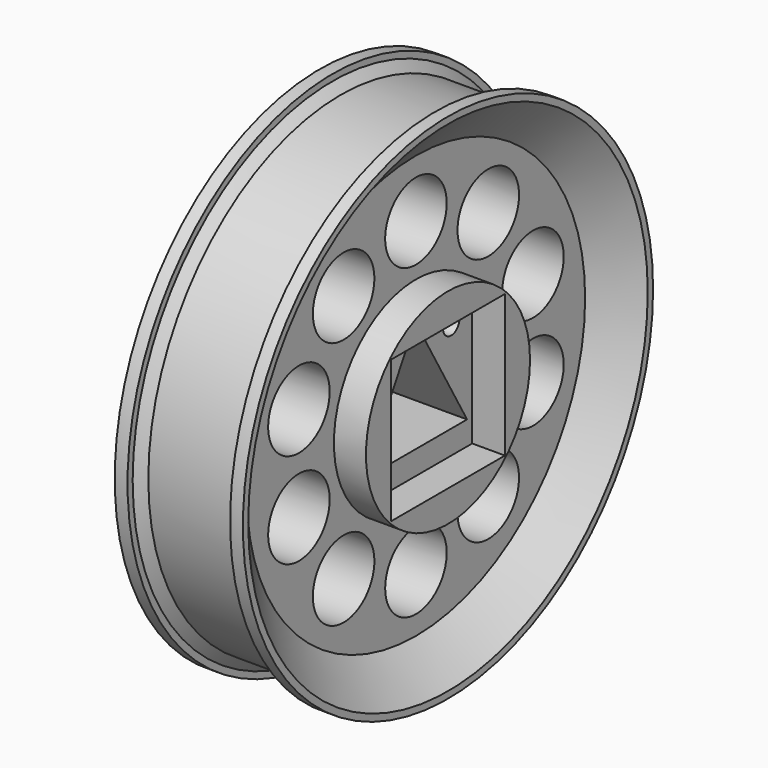
from build123d import *

# Parameters (mm, degrees)
SKETCH001_R        = 1.6
POCKET_DEPTH       = 20.001
SKETCH003_W        = 22.2
SKETCH003_H        = 22.2
POCKET001_DEPTH    = 5.1
SKETCH004_R        = 2.9
POCKET002_DEPTH    = 3
SKETCH005_R        = 6
POCKET003_DEPTH    = 244.783506
POLARPATTERN_COUNT = 10


with BuildPart() as part:
    # Sketch → Revolution (revolve)
    with BuildSketch(Plane.XY):
        Polygon((8, 39), (8, 40), (10, 40), (10, 38.958768), (5, 33), (5, 16), (10, 16), (10, 1), (-10, 1), (-10, 16), (-5, 16), (-5, 33), (-10, 38.958768), (-10, 40), (-8, 40), (-8, 39), (-6.75, 37.510308), (6.75, 37.510308), align=None)
    revolve(axis=Axis((0, 0, 0), (1, 0, 0)))

    # Sketch001 (on Face7 of Revolution) → Pocket (cut, through all)
    with BuildSketch(Plane.YZ.offset(10)):
        with Locations((-7, 7)):
            Circle(SKETCH001_R)
        with Locations((7, 7)):
            Circle(SKETCH001_R)
        Polygon((-10.1, -7.393713), (0, 10.1), (10.1, -7.393713), align=None)
    extrude(amount=-POCKET_DEPTH, mode=Mode.SUBTRACT)

    # Sketch003 (on Face13 of Pocket) → Pocket001 (cut)
    with BuildSketch(Plane.YZ.offset(10)):
        Rectangle(SKETCH003_W, SKETCH003_H)
    extrude(amount=-POCKET001_DEPTH, mode=Mode.SUBTRACT)

    # Sketch004 (on Face27 of Pocket001) → Pocket002 (cut)
    with BuildSketch(Plane(origin=(-10, 0, 0), x_dir=(0, -1, 0), z_dir=(-1, 0, 0))):
        with Locations((-7, 7)):
            Circle(SKETCH004_R)
        with Locations((7, 7)):
            Circle(SKETCH004_R)
    extrude(amount=-POCKET002_DEPTH, mode=Mode.SUBTRACT)

    # Sketch005 (on Face9 of Pocket002) → Pocket003 (cut, through all)
    with BuildSketch(Plane.YZ.offset(5)):
        with Locations((0, 24)):
            Circle(SKETCH005_R)
    pocket003 = extrude(amount=-POCKET003_DEPTH, mode=Mode.SUBTRACT)

    # PolarPattern: Pocket003 ×10 about axis
    polarpattern_axis = Axis((5, 0, 0), (1, 0, 0))
    for i in range(1, POLARPATTERN_COUNT):
        add(pocket003.rotate(polarpattern_axis, i * 360 / POLARPATTERN_COUNT), mode=Mode.SUBTRACT)


solid = part.part
